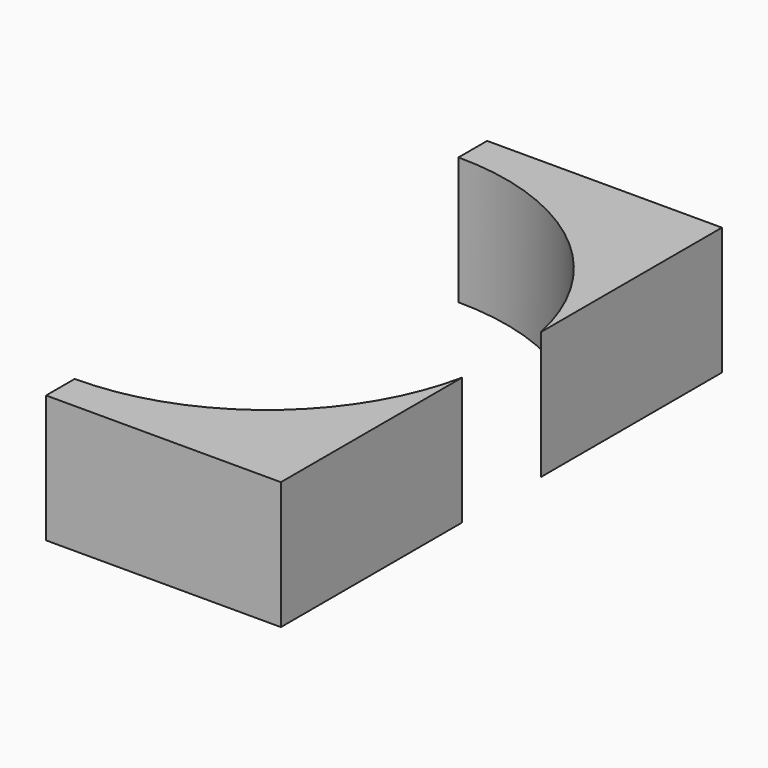
from build123d import *

# Parameters (mm, degrees)
CYLINDER1172_R     = 47
CYLINDER1172_DEPTH = 25
BOX479_W           = 46
BOX479_H           = 108
BOX479_DEPTH       = 25


with BuildPart() as obj1:
    # Cylinder1172 → Cylinder1172 (new body)
    with BuildSketch(Plane.XY.offset(20)):
        Circle(CYLINDER1172_R)
    extrude(amount=CYLINDER1172_DEPTH)


with BuildPart() as cut434:
    # Box479 → Box479 (new body)
    with BuildSketch(Plane(origin=(0, -54, 20), x_dir=(1, 0, 0), z_dir=(0, 0, 1))):
        with Locations((23, 54)):
            Rectangle(BOX479_W, BOX479_H)
    extrude(amount=BOX479_DEPTH)

    # Cut434: cut obj1
    add(obj1.part, mode=Mode.SUBTRACT)


solid = cut434.part
